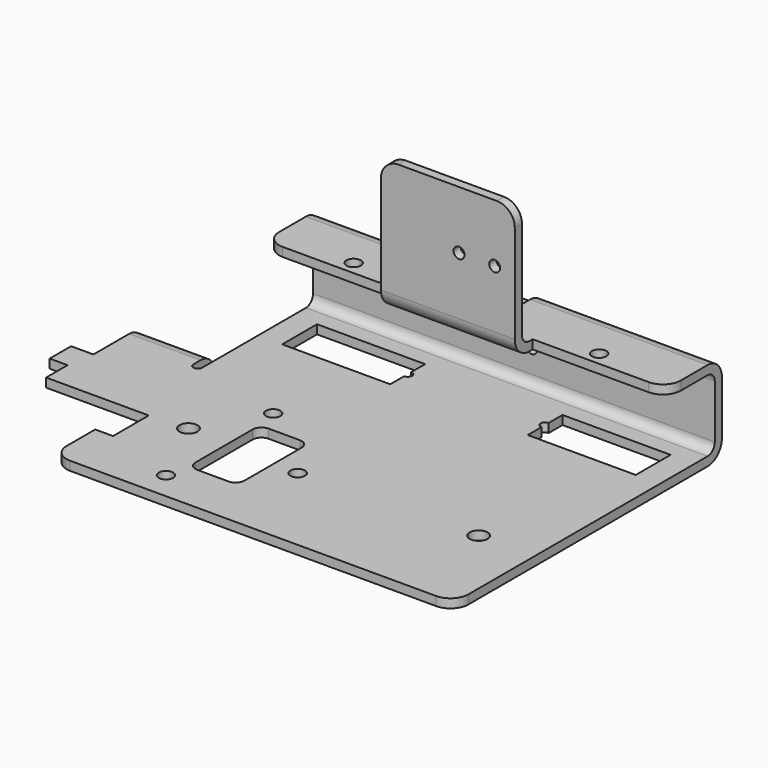
from build123d import *

# Parameters (mm, degrees)
SKETCH_R        = 2
SKETCH_R_2      = 1.62
SKETCH_W        = 11
SKETCH_H        = 20
PAD_DEPTH       = 2
SKETCH001_W     = 90
SKETCH001_H     = 20
PAD001_DEPTH    = 2
SKETCH002_W     = 90
SKETCH002_H     = 15.5
PAD002_DEPTH    = 2
SKETCH003_W     = 30
SKETCH003_H     = 2
PAD003_DEPTH    = 5
SKETCH004_W     = 30
SKETCH004_H     = 30
PAD004_DEPTH    = 2
PAD005_DEPTH    = 16
SKETCH006_R     = 1.23
POCKET_DEPTH    = 5
SKETCH007_R     = 1.23
POCKET001_DEPTH = 5
SKETCH008_R     = 1.62
POCKET002_DEPTH = 5
POCKET003_DEPTH = 8
FILLET_R        = 1.25
FILLET001_R     = 4
FILLET002_R     = 2
FILLET003_R     = 4
FILLET004_R     = 4
FILLET005_R     = 4
FILLET006_R     = 2
FILLET007_R     = 2
FILLET008_R     = 4
FILLET009_R     = 2


with BuildPart() as part:
    # Sketch → Pad (new body)
    with BuildSketch(Plane.XY):
        with BuildLine():
            Line((-45, 37.5), (45, 37.5))
            Line((45, 37.5), (45, -37.5))
            Line((45, -37.5), (-45, -37.5))
            Line((-45, -37.5), (-45, -25.5))
            Line((-45, -25.5), (-41, -25.5))
            Line((-41, -25.5), (-41, -15.5))
            Line((-41, -15.5), (-64, -15.5))
            Line((-64, -15.5), (-64, -9.5))
            Line((-64, -9.5), (-68, -9.5))
            Line((-68, -9.5), (-68, -3.5))
            Line((-68, -3.5), (-63, -3.5))
            Line((-63, -3.5), (-63, 6.5))
            Line((-63, 6.5), (-47, 6.5))
            Line((-47, 6.5), (-47, 4.499989))
            ThreePointArc((-47, 4.499989), (-46, 3.5), (-45, 4.499989))
            Line((-45, 37.5), (-45, 4.499989))
        make_face()
        with Locations((-32.5, -15)):
            Circle(SKETCH_R, mode=Mode.SUBTRACT)
        with Locations((32.5, -15)):
            Circle(SKETCH_R, mode=Mode.SUBTRACT)
        with Locations((-24.5, -31.3)):
            Circle(SKETCH_R_2, mode=Mode.SUBTRACT)
        with Locations((-24.5, -1.3)):
            Circle(SKETCH_R_2, mode=Mode.SUBTRACT)
        with Locations((-7, -16.3)):
            Circle(SKETCH_R_2, mode=Mode.SUBTRACT)
        with BuildLine():
            Line((-39.6, 29.87), (-15.4, 29.87))
            Line((-15.4, 26), (-15.4, 29.87))
            ThreePointArc((-15.4, 24), (-14.4, 25), (-15.4, 26))
            Line((-15.4, 24), (-15.4, 20.12))
            Line((-15.4, 20.12), (-39.6, 20.12))
            Line((-39.6, 20.12), (-39.6, 29.87))
        make_face(mode=Mode.SUBTRACT)
        with BuildLine():
            Line((15.4, 29.87), (39.6, 29.87))
            Line((39.6, 29.87), (39.6, 20.12))
            Line((39.6, 20.12), (15.4, 20.12))
            Line((15.4, 24), (15.4, 20.12))
            ThreePointArc((15.4, 26), (14.4, 25), (15.4, 24))
            Line((15.4, 29.87), (15.4, 26))
        make_face(mode=Mode.SUBTRACT)
        with Locations((-18, -16.3)):
            Rectangle(SKETCH_W, SKETCH_H, mode=Mode.SUBTRACT)
    extrude(amount=PAD_DEPTH)

    # Sketch001 → Pad001 (new body)
    with BuildSketch(Plane(origin=(0, 37.5, 0), x_dir=(-1, 0, 0), z_dir=(0, 1, 0))):
        with Locations((0, 10)):
            Rectangle(SKETCH001_W, SKETCH001_H)
    extrude(amount=-PAD001_DEPTH)

    # Sketch002 → Pad002 (new body)
    with BuildSketch(Plane.XY.offset(20)):
        with Locations((0, 29.75)):
            Rectangle(SKETCH002_W, SKETCH002_H)
    extrude(amount=-PAD002_DEPTH)

    # Sketch003 → Pad003 (new body)
    with BuildSketch(Plane.XZ.offset(-22)):
        with Locations((0, 19)):
            Rectangle(SKETCH003_W, SKETCH003_H)
    extrude(amount=PAD003_DEPTH)

    # Sketch004 → Pad004 (new body)
    with BuildSketch(Plane.XZ.offset(-17)):
        with Locations((0, 33)):
            Rectangle(SKETCH004_W, SKETCH004_H)
    extrude(amount=-PAD004_DEPTH)

    # Sketch005 → Pad005 (new body)
    with BuildSketch(Plane(origin=(-63, 0, 0), x_dir=(0, -1, 0), z_dir=(-1, 0, 0))):
        with BuildLine():
            ThreePointArc((-6.5, 0), (-7.85118, -0.525445), (-8.492389, -1.825689))
            Line((-8.492389, -1.825689), (-9.71257, -15.772414))
            Line((-9.71257, -15.772414), (-11.704959, -15.598103))
            Line((-11.704959, -15.598103), (-10.484777, -1.651361))
            ThreePointArc((-6.5, 2), (-9.202355, 0.949115), (-10.484777, -1.651361))
            Line((-6.5, 2), (-6.5, 0))
        make_face()
    extrude(amount=-PAD005_DEPTH)

    # Sketch006 → Pocket (cut)
    with BuildSketch(Plane(origin=(0, 19, 0), x_dir=(-1, 0, 0), z_dir=(0, 1, 0))):
        with Locations((-10.5, 35)):
            Circle(SKETCH006_R)
        with Locations((-2.5, 35)):
            Circle(SKETCH006_R)
    extrude(amount=-POCKET_DEPTH, mode=Mode.SUBTRACT)

    # Sketch007 → Pocket001 (cut)
    with BuildSketch(Plane(origin=(0, 10.261756, 0.897787), x_dir=(-1, 0, 0), z_dir=(0, 0.996195, 0.087156))):
        with Locations((55, -4.558902)):
            Circle(SKETCH007_R)
        with Locations((55, -12.558902)):
            Circle(SKETCH007_R)
    extrude(amount=-POCKET001_DEPTH, mode=Mode.SUBTRACT)

    # Sketch008 → Pocket002 (cut)
    with BuildSketch(Plane.XY.offset(20)):
        with Locations((-27.5, 25)):
            Circle(SKETCH008_R)
        with Locations((27.5, 25)):
            Circle(SKETCH008_R)
    extrude(amount=-POCKET002_DEPTH, mode=Mode.SUBTRACT)

    # Sketch009 → Pocket003 (cut)
    with BuildSketch(Plane(origin=(0, 37.5, 0), x_dir=(-1, 0, 0), z_dir=(0, 1, 0))):
        with BuildLine():
            Line((-5.25, 20), (-5.25, 9.25))
            ThreePointArc((-5.25, 9.25), (-4, 8), (-2.75, 9.25))
            Line((-2.75, 9.25), (-2.75, 17))
            Line((-2.75, 17), (2.75, 17))
            Line((2.75, 9.25), (2.75, 17))
            ThreePointArc((2.75, 9.25), (4.000005, 8.00001), (5.25, 9.250011))
            Line((5.25, 20), (5.25, 9.250011))
            Line((-5.25, 20), (5.25, 20))
        make_face()
    extrude(amount=-POCKET003_DEPTH, mode=Mode.SUBTRACT)

    # Fillet
    fillet_edges = [part.edges().sort_by_distance(p)[0] for p in [
        (-2.75, 36.5, 17),
        (2.75, 36.5, 17),
        (5.25, 29.5, 19),
        (-5.25, 29.5, 19),
    ]]
    fillet(fillet_edges, radius=FILLET_R)

    # Fillet001
    fillet001_edges = [part.edges().sort_by_distance(p)[0] for p in [
        (-15, 18, 48),
        (15, 18, 48),
    ]]
    fillet(fillet001_edges, radius=FILLET001_R)

    # Fillet002
    fillet002_edges = [part.edges().sort_by_distance(p)[0] for p in [
        (0, 19, 20),
    ]]
    fillet(fillet002_edges, radius=FILLET002_R)

    # Fillet003
    fillet003_edges = [part.edges().sort_by_distance(p)[0] for p in [
        (0, 17, 18),
    ]]
    fillet(fillet003_edges, radius=FILLET003_R)

    # Fillet004
    fillet004_edges = [part.edges().sort_by_distance(p)[0] for p in [
        (-45, 22, 19),
        (45, 22, 19),
    ]]
    fillet(fillet004_edges, radius=FILLET004_R)

    # Fillet005
    fillet005_edges = [part.edges().sort_by_distance(p)[0] for p in [
        (25.125, 37.5, 20),
        (0, 37.5, 0),
        (-25.125, 37.5, 20),
    ]]
    fillet(fillet005_edges, radius=FILLET005_R)

    # Fillet006
    fillet006_edges = [part.edges().sort_by_distance(p)[0] for p in [
        (-25.125, 35.5, 18),
        (25.125, 35.5, 18),
        (0, 35.5, 2),
    ]]
    fillet(fillet006_edges, radius=FILLET006_R)

    # Fillet007
    fillet007_edges = [part.edges().sort_by_distance(p)[0] for p in [
        (-63, 10.708764, -15.685259),
        (-47, 10.708764, -15.685259),
    ]]
    fillet(fillet007_edges, radius=FILLET007_R)

    # Fillet008
    fillet008_edges = [part.edges().sort_by_distance(p)[0] for p in [
        (-45, -37.5, 1),
        (45, -37.5, 1),
    ]]
    fillet(fillet008_edges, radius=FILLET008_R)

    # Fillet009
    fillet009_edges = [part.edges().sort_by_distance(p)[0] for p in [
        (-12.5, -6.3, 1),
        (-23.5, -6.3, 1),
        (-23.5, -26.3, 1),
        (-12.5, -26.3, 1),
    ]]
    fillet(fillet009_edges, radius=FILLET009_R)


solid = part.part
